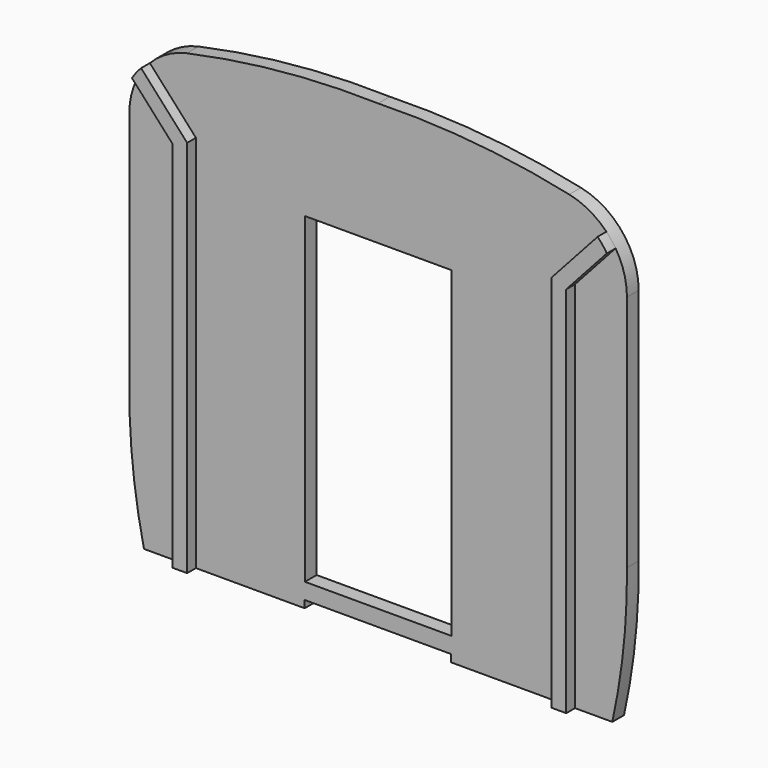
from build123d import *

# Parameters (mm, degrees)
F0_W     = 4.9639665522
F0_H     = 0.5
F0_W_2   = 5.0214207731
F1_DEPTH = 1
F2_DEPTH = 8.4
F4_DEPTH = 0.75


with BuildPart() as f1:
    # F0 (on Front) → F1 (new body)
    with BuildSketch(Plane.XZ):
        with BuildLine():
            Line((-5.0214207731, -9.1), (0, -9.1))
            Line((0, -9.1), (4.9639665522, -9.1))
            Line((4.9639665522, -9.1), (4.9639665522, -9.6))
            Line((4.9639665522, -9.6), (16, -9.6))
            ThreePointArc((16, -9.6), (16.7734096476, -4.8284801716), (17, 0))
            Line((17, 0), (17, 16.2837651256))
            ThreePointArc((17, 16.2837651256), (15.8919740301, 19.4226404256), (13.0589847405, 21.1703335861))
            ThreePointArc((13.0589847405, 21.1703335861), (6.5662809494, 22.1758593321), (0, 22.4))
            ThreePointArc((0, 22.4), (-6.5662809494, 22.1758593321), (-13.0589847405, 21.1703335861))
            ThreePointArc((-13.0589847405, 21.1703335861), (-15.8919740301, 19.4226404256), (-17, 16.2837651256))
            Line((-17, 16.2837651256), (-17, 0))
            ThreePointArc((-17, 0), (-16.7734096476, -4.8284801716), (-16, -9.6))
            Line((-16, -9.6), (-5.0214207731, -9.6))
            Line((-5.0214207731, -9.6), (-5.0214207731, -9.1))
        make_face()
        Polygon((5, -8), (0, -8), (-5, -8), (-5, 14), (5, 14), align=None, mode=Mode.SUBTRACT)
        with Locations((2.4819832761, -9.35)):
            Rectangle(F0_W, F0_H)
        with Locations((-2.5107103866, -9.35)):
            Rectangle(F0_W_2, F0_H)
    extrude(amount=F1_DEPTH)

    # F0 (on Front) → F2 (cut)
    with BuildSketch(Plane.XZ):
        with Locations((-2.5107103866, -9.35)):
            Rectangle(F0_W_2, F0_H)
        with Locations((2.4819832761, -9.35)):
            Rectangle(F0_W, F0_H)
    extrude(amount=F2_DEPTH, mode=Mode.SUBTRACT)

    # F3 (on face) → F4 (join)
    with BuildSketch(Plane.XZ.offset(1)):
        with BuildLine():
            Line((-13.4512646501, -9.6), (-12.4512640759, -9.6))
            Line((-12.4512640759, -9.6), (-12.4512640759, 16.2837651256))
            Line((-12.4512640759, 16.2837651256), (-15.5969633106, 19.7567832571))
            ThreePointArc((-15.5969633106, 19.7567832571), (-15.9307044856, 19.3740017261), (-16.223895747, 18.9593407121))
            Line((-16.223895747, 18.9593407121), (-13.4512646501, 15.8982095126))
            Line((-13.4512646501, 15.8982095126), (-13.4512646501, -9.6))
        make_face()
        with BuildLine():
            Line((12.4512640759, 16.2837651256), (12.4512640759, -9.6))
            Line((12.4512640759, -9.6), (13.4512646501, -9.6))
            Line((13.4512646501, -9.6), (13.4512646501, 15.8982095126))
            Line((13.4512646501, 15.8982095126), (16.223895747, 18.9593407121))
            ThreePointArc((16.223895747, 18.9593407121), (15.9307044856, 19.3740017261), (15.5969633106, 19.7567832571))
            Line((15.5969633106, 19.7567832571), (12.4512640759, 16.2837651256))
        make_face()
    extrude(amount=F4_DEPTH)


solid = f1.part
